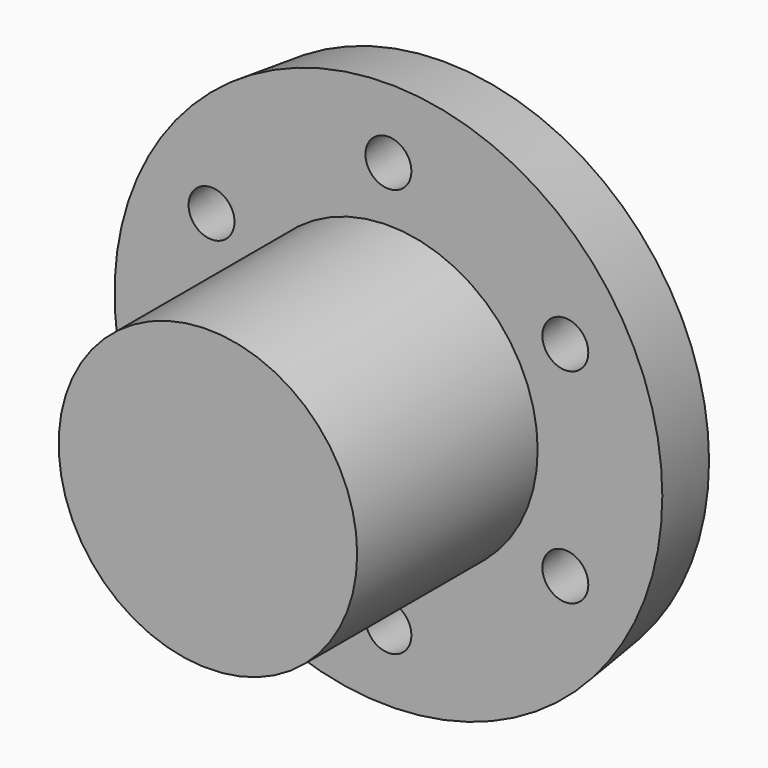
from build123d import *

# Parameters (mm, degrees)
F0_R     = 254
F0_R_2   = 30.0836769803
F1_DEPTH = 66.04
F1_TAPER = -7
F2_R     = 142.8310706252
F3_DEPTH = 215.9


with BuildPart() as f1:
    # F0 (on Front) → F1 (new body)
    with BuildSketch(Plane.XZ):
        Circle(F0_R)
        with Locations((-169.2818999115, -97.7349504828)):
            Circle(F0_R_2, mode=Mode.SUBTRACT)
        with Locations((0, -195.4699009657)):
            Circle(F0_R_2, mode=Mode.SUBTRACT)
        with Locations((169.2818999115, -97.7349504828)):
            Circle(F0_R_2, mode=Mode.SUBTRACT)
        with Locations((-169.2818999115, 97.7349504828)):
            Circle(F0_R_2, mode=Mode.SUBTRACT)
        with Locations((169.2818999115, 97.7349504828)):
            Circle(F0_R_2, mode=Mode.SUBTRACT)
        with Locations((0, 195.4699009657)):
            Circle(F0_R_2, mode=Mode.SUBTRACT)
    extrude(amount=F1_DEPTH, taper=F1_TAPER)

    # F2 (on face) → F3 (join)
    with BuildSketch(Plane.XZ.offset(66.04)):
        Circle(F2_R)
    extrude(amount=F3_DEPTH)


solid = f1.part
